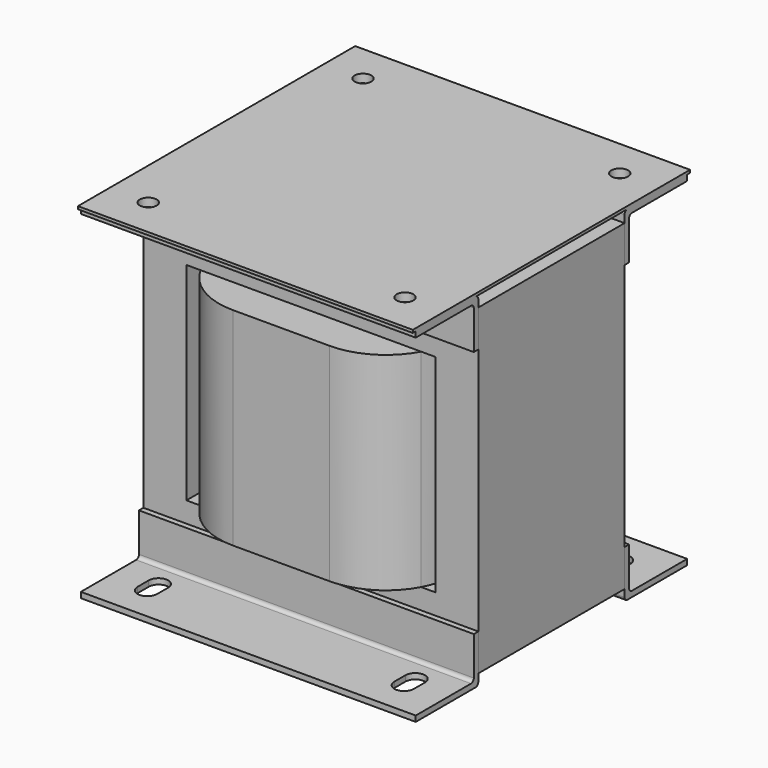
from build123d import *

# Parameters (mm, degrees)
F0_W      = 190.5
F0_H      = 183.23
F1_DEPTH  = 104
F3_DEPTH  = 190.5
F9_DEPTH  = 3.201
F10_W     = 141.6
F10_H     = 117.9
F11_DEPTH = 150.576
F13_DEPTH = 117.9
F14_R     = 4.7625
F15_DEPTH = 25


with BuildPart() as f1:
    # F0 (on Front) → F1 (new body)
    with BuildSketch(Plane.XZ):
        Rectangle(F0_W, F0_H)
    extrude(amount=F1_DEPTH)

    # F10 (on face) → F11 (cut, through all)
    with BuildSketch(Plane.XZ.offset(104)):
        Rectangle(F10_W, F10_H)
    extrude(amount=-F11_DEPTH, mode=Mode.SUBTRACT)


with BuildPart() as f3:
    # F2 (on face) → F3 (new body, through all)
    with BuildSketch(Plane(origin=(-95.25, 0, 0), x_dir=(0, -1, 0), z_dir=(-1, 0, 0))):
        with BuildLine():
            Line((-3.2, 70.615), (0, 70.615))
            Line((0, 70.615), (0, 91.615))
            Line((0, 91.615), (0, 94.615))
            Line((0, 94.615), (0, 95.815))
            ThreePointArc((0, 95.815), (-0.5857864376, 97.2292135624), (-2, 97.815))
            Line((-2, 97.815), (-44.5, 97.815))
            Line((-44.5, 97.815), (-44.5, 94.615))
            Line((-44.5, 94.615), (-5.2, 94.615))
            ThreePointArc((-5.2, 94.615), (-3.7857864376, 94.0292135624), (-3.2, 92.615))
            Line((-3.2, 92.615), (-3.2, 70.615))
        make_face()
        with BuildLine():
            Line((104, 91.615), (104, 70.615))
            Line((104, 70.615), (107.2, 70.615))
            Line((107.2, 70.615), (107.2, 92.615))
            ThreePointArc((107.2, 92.615), (107.7857864376, 94.0292135624), (109.2, 94.615))
            Line((109.2, 94.615), (148.5, 94.615))
            Line((148.5, 94.615), (148.5, 97.815))
            Line((148.5, 97.815), (106, 97.815))
            ThreePointArc((106, 97.815), (104.5857864376, 97.2292135624), (104, 95.815))
            Line((104, 95.815), (104, 94.615))
            Line((104, 94.615), (104, 91.615))
        make_face()
        Polygon((-2, 97.815), (106, 97.815), (148.5, 97.815), (150.575, 97.815), (150.575, 99.39), (-46.575, 99.39), (-46.575, 97.815), (-44.5, 97.815), align=None)
    extrude(amount=-F3_DEPTH)

    # F14 (on face) → F15 (cut)
    with BuildSketch(Plane.XY.offset(99.39)):
        with Locations((-73.0255, 24.3505)):
            Circle(F14_R)
        with Locations((73.0255, 24.3505)):
            Circle(F14_R)
        with Locations((-73.0255, -128.3505)):
            Circle(F14_R)
        with Locations((73.0255, -128.3505)):
            Circle(F14_R)
    extrude(amount=-F15_DEPTH, mode=Mode.SUBTRACT)


with BuildPart() as f3b:
    # F2 (on face) → F3, piece 2 (new body, through all)
    with BuildSketch(Plane(origin=(-95.25, 0, 0), x_dir=(0, -1, 0), z_dir=(-1, 0, 0))):
        with BuildLine():
            Line((107.2, -70.615), (104, -70.615))
            Line((104, -70.615), (104, -91.615))
            Line((104, -91.615), (104, -94.615))
            Line((104, -94.615), (104, -95.815))
            ThreePointArc((104, -95.815), (104.5857864376, -97.2292135624), (106, -97.815))
            Line((106, -97.815), (148.5, -97.815))
            Line((148.5, -97.815), (148.5, -94.615))
            Line((148.5, -94.615), (109.2, -94.615))
            ThreePointArc((109.2, -94.615), (107.7857864376, -94.0292135624), (107.2, -92.615))
            Line((107.2, -92.615), (107.2, -70.615))
        make_face()
    extrude(amount=-F3_DEPTH)


with BuildPart() as f7_1:
    # F7: instance of F3b
    add(f3b.part.mirror(Plane(origin=(95.25, -52, 0), x_dir=(-1, 0, 0), z_dir=(0, 1, 0))))


with BuildPart() as f9_tool:
    # F8 (on face) → F9 (new body, through all)
    with BuildSketch(Plane.XY.offset(-94.615)):
        with BuildLine():
            Line((-67.4624, -128.9874), (-67.4624, -121.0626))
            ThreePointArc((-67.4624, -121.0626), (-73.025, -115.5), (-78.5876, -121.0626))
            Line((-78.5876, -121.0626), (-78.5876, -128.9874))
            ThreePointArc((-78.5876, -128.9874), (-73.025, -134.55), (-67.4624, -128.9874))
        make_face()
        with BuildLine():
            ThreePointArc((-67.4624, 24.9874), (-73.025, 30.55), (-78.5876, 24.9874))
            Line((-78.5876, 24.9874), (-78.5876, 17.0626))
            ThreePointArc((-78.5876, 17.0626), (-73.025, 11.5), (-67.4624, 17.0626))
            Line((-67.4624, 17.0626), (-67.4624, 24.9874))
        make_face()
        with BuildLine():
            ThreePointArc((78.5876, -121.0626), (73.025, -115.5), (67.4624, -121.0626))
            Line((67.4624, -121.0626), (67.4624, -128.9874))
            ThreePointArc((67.4624, -128.9874), (73.025, -134.55), (78.5876, -128.9874))
            Line((78.5876, -128.9874), (78.5876, -121.0626))
        make_face()
        with BuildLine():
            Line((67.4624, 24.9874), (67.4624, 17.0626))
            ThreePointArc((67.4624, 17.0626), (73.025, 11.5), (78.5876, 17.0626))
            Line((78.5876, 17.0626), (78.5876, 24.9874))
            ThreePointArc((78.5876, 24.9874), (73.025, 30.55), (67.4624, 24.9874))
        make_face()
    extrude(amount=-F9_DEPTH)


with BuildPart() as f3b_1:
    add(f3b.part)

    # F9: cut by f9_tool
    add(f9_tool.part, mode=Mode.SUBTRACT)


with BuildPart() as f7_1_1:
    add(f7_1.part)

    # F9: cut by f9_tool
    add(f9_tool.part, mode=Mode.SUBTRACT)


with BuildPart() as f13:
    # F12 (on face) → F13 (new body, through all)
    with BuildSketch(Plane.XY.offset(-58.95)):
        with BuildLine():
            ThreePointArc((-67.5, -85.025), (-66.2847688892, -94.8097688892), (-62.7129148893, -104))
            Line((-62.7129148893, -104), (62.7129148893, -104))
            ThreePointArc((62.7129148893, -104), (66.2847688892, -94.8097688892), (67.5, -85.025))
            Line((67.5, -85.025), (67.5, -18.975))
            ThreePointArc((67.5, -18.975), (66.2847688892, -9.1902311108), (62.7129148893, 0))
            Line((62.7129148893, 0), (-62.7129148893, 0))
            ThreePointArc((-62.7129148893, 0), (-66.2847688892, -9.1902311108), (-67.5, -18.975))
            Line((-67.5, -18.975), (-67.5, -85.025))
        make_face()
        with BuildLine():
            ThreePointArc((-27.5, 21.025), (-48.0060966544, 15.3688495221), (-62.7129148893, 0))
            Line((-62.7129148893, 0), (62.7129148893, 0))
            ThreePointArc((62.7129148893, 0), (48.0060966544, 15.3688495221), (27.5, 21.025))
            Line((27.5, 21.025), (-27.5, 21.025))
        make_face()
        with BuildLine():
            ThreePointArc((-62.7129148893, -104), (-48.0060966544, -119.3688495221), (-27.5, -125.025))
            Line((-27.5, -125.025), (27.5, -125.025))
            ThreePointArc((27.5, -125.025), (48.0060966544, -119.3688495221), (62.7129148893, -104))
            Line((62.7129148893, -104), (-62.7129148893, -104))
        make_face()
    extrude(amount=F13_DEPTH)


solid = Compound([f1.part, f3.part, f3b_1.part, f7_1_1.part, f13.part])
